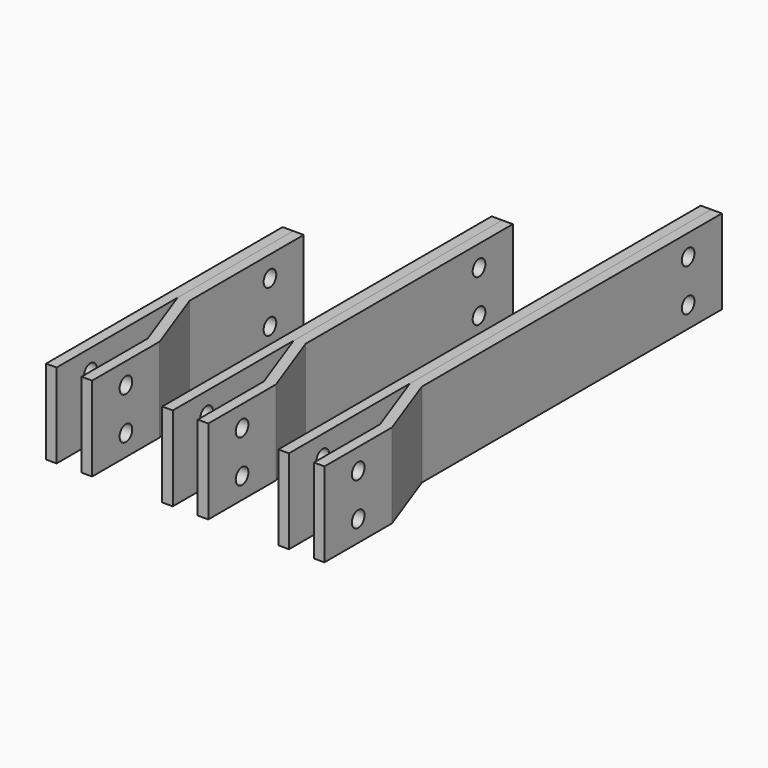
from build123d import *

# Parameters (mm, degrees)
F0_W      = 6.35
F0_H      = 177.8
F0_H_2    = 247.65
F0_H_3    = 317.5
F1_DEPTH  = 25.4
F3_DEPTH  = 25.4
F4_R      = 4.7625
F5_DEPTH  = 167.387
F6_R      = 4.7625
F7_DEPTH  = 12.7
F8_R      = 4.7625
F9_DEPTH  = 12.7
F10_R     = 4.7625
F11_DEPTH = 12.7


with BuildPart() as f1:
    # F0 (on Top) → F1 (new body, symmetric)
    with BuildSketch(Plane.XY):
        with Locations((3.175, 88.9)):
            Rectangle(F0_W, F0_H)
        with Locations((73.025, 123.825)):
            Rectangle(F0_W, F0_H_2)
        with Locations((142.875, 158.75)):
            Rectangle(F0_W, F0_H_3)
    extrude(amount=F1_DEPTH, both=True)


with BuildPart() as f3:
    # F2 (on Top) → F3 (new body, symmetric)
    with BuildSketch(Plane.XY):
        Polygon((21.336, 49.680324), (21.336, 0), (27.686, 0), (27.686, 50.8), (12.7, 91.973697), (12.7, 177.8), (6.35, 177.8), (6.35, 90.85402), align=None)
        Polygon((91.186, 49.680324), (91.186, 0), (97.536, 0), (97.536, 50.8), (82.55, 91.973697), (82.55, 247.65), (76.2, 247.65), (76.2, 90.85402), align=None)
        Polygon((161.036, 49.680324), (161.036, 0), (167.386, 0), (167.386, 50.8), (152.4, 91.973697), (152.4, 317.5), (146.05, 317.5), (146.05, 90.85402), align=None)
    extrude(amount=F3_DEPTH, both=True)


with BuildPart() as f5_tool:
    # F4 (on face) → F5 (new body, through all)
    with BuildSketch(Plane(origin=(0, 0, 0), x_dir=(0, -1, 0), z_dir=(-1, 0, 0))):
        with Locations((-25.4, 12.7)):
            Circle(F4_R)
        with Locations((-25.4, -12.7)):
            Circle(F4_R)
    extrude(amount=-F5_DEPTH)


with BuildPart() as f1_1:
    add(f1.part)

    # F5: cut by f5_tool
    add(f5_tool.part, mode=Mode.SUBTRACT)


with BuildPart() as f3_1:
    add(f3.part)

    # F5: cut by f5_tool
    add(f5_tool.part, mode=Mode.SUBTRACT)


with BuildPart() as f7_tool:
    # F6 (on face) → F7 (new body, through all)
    with BuildSketch(Plane(origin=(0, 0, 0), x_dir=(0, -1, 0), z_dir=(-1, 0, 0))):
        with Locations((-152.4, 12.7)):
            Circle(F6_R)
        with Locations((-152.4, -12.7)):
            Circle(F6_R)
    extrude(amount=-F7_DEPTH)


with BuildPart() as f1_2:
    add(f1_1.part)

    # F7: cut by f7_tool
    add(f7_tool.part, mode=Mode.SUBTRACT)


with BuildPart() as f3_2:
    add(f3_1.part)

    # F7: cut by f7_tool
    add(f7_tool.part, mode=Mode.SUBTRACT)


with BuildPart() as f9_tool:
    # F8 (on face) → F9 (new body, through all)
    with BuildSketch(Plane(origin=(69.85, 0, 0), x_dir=(0, -1, 0), z_dir=(-1, 0, 0))):
        with Locations((-222.25, 12.7)):
            Circle(F8_R)
        with Locations((-222.25, -12.7)):
            Circle(F8_R)
    extrude(amount=-F9_DEPTH)


with BuildPart() as f1_3:
    add(f1_2.part)

    # F9: cut by f9_tool
    add(f9_tool.part, mode=Mode.SUBTRACT)


with BuildPart() as f3_3:
    add(f3_2.part)

    # F9: cut by f9_tool
    add(f9_tool.part, mode=Mode.SUBTRACT)


with BuildPart() as f11_tool:
    # F10 (on face) → F11 (new body, through all)
    with BuildSketch(Plane(origin=(139.7, 0, 0), x_dir=(0, -1, 0), z_dir=(-1, 0, 0))):
        with Locations((-292.1, 12.7)):
            Circle(F10_R)
        with Locations((-292.1, -12.7)):
            Circle(F10_R)
    extrude(amount=-F11_DEPTH)


with BuildPart() as f1_4:
    add(f1_3.part)

    # F11: cut by f11_tool
    add(f11_tool.part, mode=Mode.SUBTRACT)


with BuildPart() as f3_4:
    add(f3_3.part)

    # F11: cut by f11_tool
    add(f11_tool.part, mode=Mode.SUBTRACT)


solid = Compound([f1_4.part, f3_4.part])
